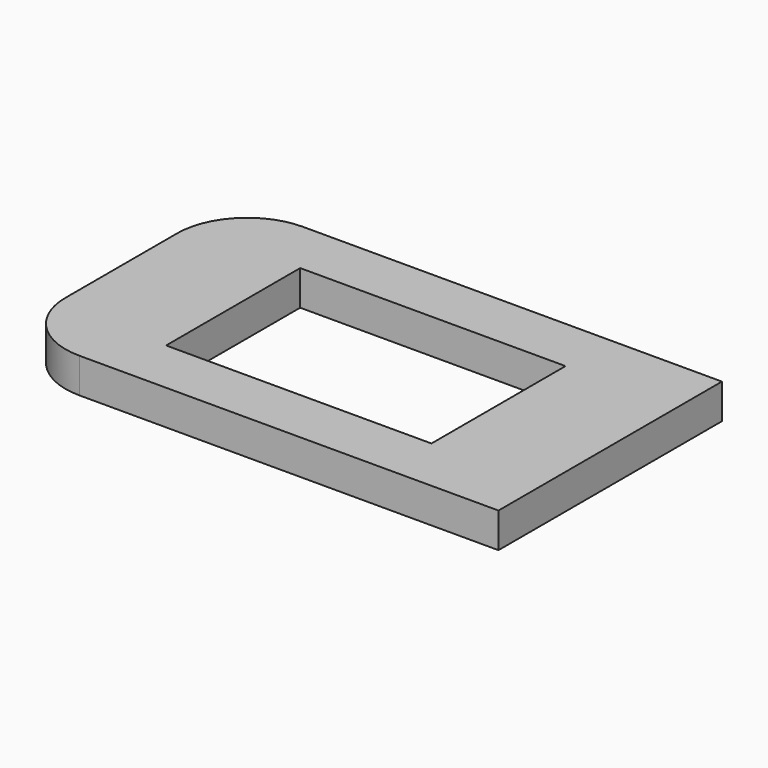
from build123d import *

# Parameters (mm, degrees)
F0_W     = 24.13
F0_H     = 15.24
F1_DEPTH = 3.175


with BuildPart() as f1:
    # F0 (on Top) → F1 (new body)
    with BuildSketch(Plane.XY):
        with BuildLine():
            ThreePointArc((-22.225, -6.35), (-20.365128, -10.840128), (-15.875, -12.7))
            Line((-15.875, -12.7), (22.225, -12.7))
            Line((22.225, -12.7), (22.225, 12.7))
            Line((22.225, 12.7), (-15.875, 12.7))
            ThreePointArc((-15.875, 12.7), (-20.365128, 10.840128), (-22.225, 6.35))
            Line((-22.225, 6.35), (-22.225, -6.35))
        make_face()
        Rectangle(F0_W, F0_H, mode=Mode.SUBTRACT)
    extrude(amount=F1_DEPTH)


solid = f1.part
